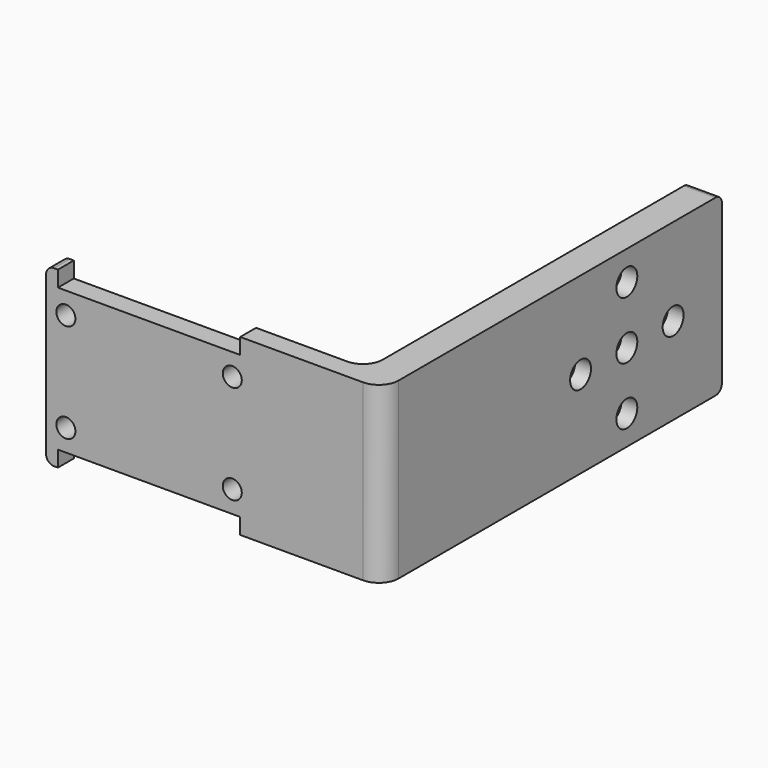
from build123d import *

# Parameters (mm, degrees)
PAD_DEPTH       = 11
PAD_DEPTH_BACK  = 11
SKETCH001_R     = 1.2
POCKET_DEPTH    = 53.501
FILLET_R        = 2.5
FILLET001_R     = 1
SKETCH002_R     = 1.65
POCKET001_DEPTH = 42.501
SKETCH003_R     = 10.25
POCKET002_DEPTH = 2
SKETCH004_W     = 23
SKETCH004_H     = 2
POCKET003_DEPTH = 5


with BuildPart() as part:
    # Sketch → Pad (new body, two sides)
    with BuildSketch(Plane.XY) as pad_sk:
        Polygon((-2, 15), (2, 15), (2, -38.5), (-40.5, -38.5), (-40.5, -36), (-2, -36), align=None)
    extrude(amount=PAD_DEPTH)
    extrude(pad_sk.sketch, amount=-PAD_DEPTH_BACK)

    # Sketch001 (on Face3 of Pad) → Pocket (cut, through all)
    with BuildSketch(Plane.XZ.offset(38.5)):
        with Locations((-38, 6.25)):
            Circle(SKETCH001_R)
        with Locations((-17, 6.25)):
            Circle(SKETCH001_R)
        with Locations((-38, -6.25)):
            Circle(SKETCH001_R)
        with Locations((-17, -6.25)):
            Circle(SKETCH001_R)
    extrude(amount=-POCKET_DEPTH, mode=Mode.SUBTRACT)

    # Fillet
    fillet_edges = [part.edges().sort_by_distance(p)[0] for p in [
        (2, -38.5, 0),
        (-2, -36, 0),
    ]]
    fillet(fillet_edges, radius=FILLET_R)

    # Fillet001
    fillet001_edges = [part.edges().sort_by_distance(p)[0] for p in [
        (-40.5, -37.25, -11),
        (0, 15, -11),
        (0, 15, 11),
        (-40.5, -37.25, 11),
    ]]
    fillet(fillet001_edges, radius=FILLET001_R)

    # Sketch002 (on Face8 of Fillet001) → Pocket001 (cut, through all)
    with BuildSketch(Plane.YZ.offset(2)):
        Circle(SKETCH002_R)
        with Locations((7.3, 0)):
            Circle(SKETCH002_R)
        with Locations((0, -7.3)):
            Circle(SKETCH002_R)
        with Locations((-7.3, 0)):
            Circle(SKETCH002_R)
        with Locations((0, 7.3)):
            Circle(SKETCH002_R)
    extrude(amount=-POCKET001_DEPTH, mode=Mode.SUBTRACT)

    # Sketch003 (on Face1 of Pocket001) → Pocket002 (cut)
    with BuildSketch(Plane(origin=(-2, 0, 0), x_dir=(0, -1, 0), z_dir=(-1, 0, 0))):
        Circle(SKETCH003_R)
    extrude(amount=-POCKET002_DEPTH, mode=Mode.SUBTRACT)

    # Sketch004 (on Face11 of Pocket002) → Pocket003 (cut)
    with BuildSketch(Plane.XZ.offset(38.5)):
        with Locations((-27.5, 10)):
            Rectangle(SKETCH004_W, SKETCH004_H)
        with Locations((-27.5, -10)):
            Rectangle(SKETCH004_W, SKETCH004_H)
    extrude(amount=-POCKET003_DEPTH, mode=Mode.SUBTRACT)


solid = part.part
